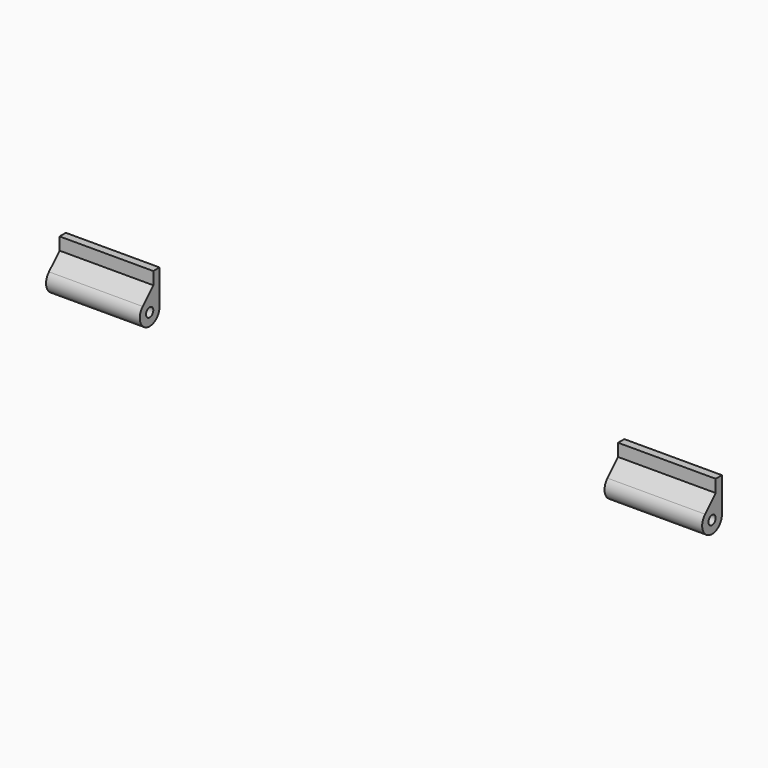
from build123d import *

# Parameters (mm, degrees)
SKETCH077_W      = 25
SKETCH077_H      = 15
EXTRUDE069_DEPTH = 10
SKETCH076_R      = 1.16
EXTRUDE068_DEPTH = 175


with BuildPart() as extrude069:
    # Sketch077 → Extrude069 (new body)
    with BuildSketch(Plane(origin=(0, 280, 0), x_dir=(-1, 0, 0), z_dir=(0, 1, 0))):
        with Locations((-58.5, -20.5)):
            Rectangle(SKETCH077_W, SKETCH077_H)
        with Locations((-202.5, -20.5)):
            Rectangle(SKETCH077_W, SKETCH077_H)
    extrude(amount=-EXTRUDE069_DEPTH)


with BuildPart() as battery_hinge001:
    # Sketch076 → Extrude068 (new body)
    with BuildSketch(Plane.YZ.offset(47)):
        with BuildLine():
            ThreePointArc((273.105543, -21.605543), (274.13072, -26.759459), (278.5, -23.84))
            Line((278.5, -15), (278.5, -23.84))
            Line((276.5, -15), (278.5, -15))
            Line((276.5, -18.211085), (276.5, -15))
            Line((273.105543, -21.605543), (276.5, -18.211085))
        make_face()
        with Locations((275.34, -23.84)):
            Circle(SKETCH076_R, mode=Mode.SUBTRACT)
    extrude(amount=EXTRUDE068_DEPTH)

    # Common: intersect Extrude069
    add(extrude069.part, mode=Mode.INTERSECT)


solid = battery_hinge001.part
